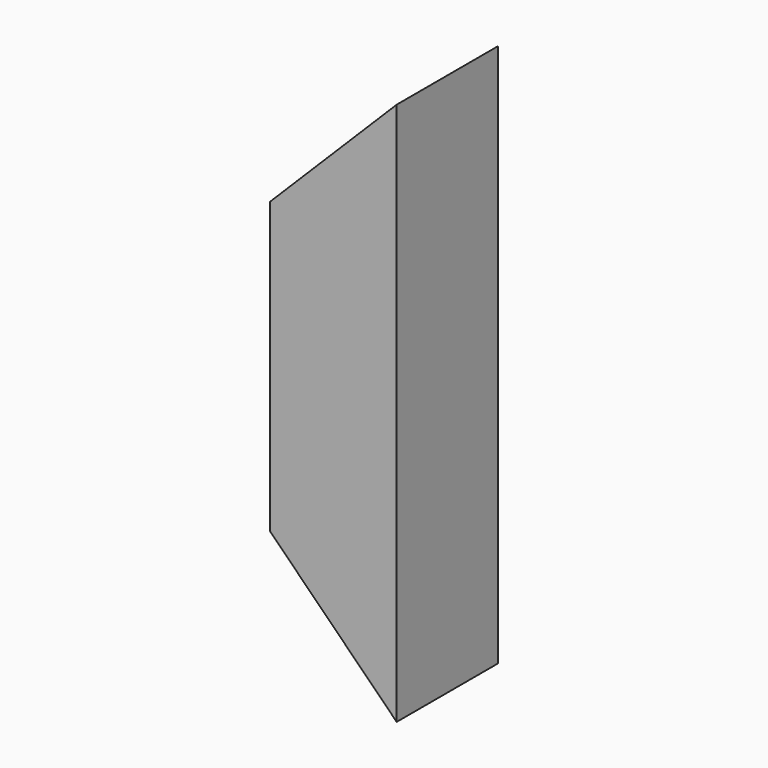
from build123d import *

# Parameters (mm, degrees)
F0_W     = 14
F0_H     = 14
F1_DEPTH = 60
F3_DEPTH = 25
F5_DEPTH = 25


with BuildPart() as f1:
    # F0 (on Top) → F1 (new body)
    with BuildSketch(Plane.XY):
        Rectangle(F0_W, F0_H)
    extrude(amount=F1_DEPTH)

    # F2 (on face) → F3 (cut)
    with BuildSketch(Plane.XZ.offset(7)):
        Polygon((-7, 46), (7, 60), (-7, 60), align=None)
    extrude(amount=-F3_DEPTH, mode=Mode.SUBTRACT)

    # F4 (on face) → F5 (cut)
    with BuildSketch(Plane.XZ.offset(7)):
        Polygon((-7, 0), (7, 0), (-7, 14), align=None)
    extrude(amount=-F5_DEPTH, mode=Mode.SUBTRACT)


solid = f1.part
